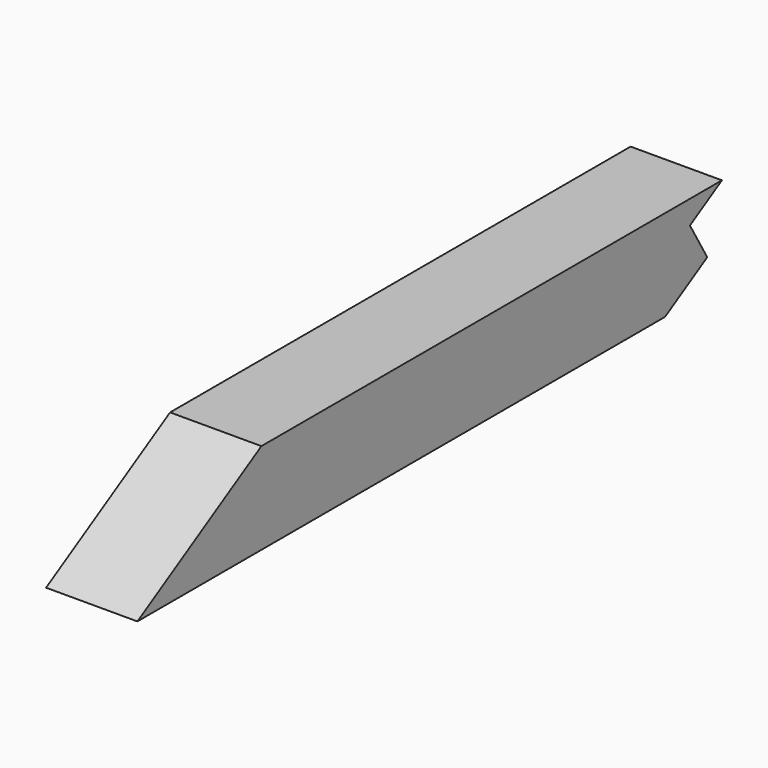
from build123d import *

# Parameters (mm, degrees)
F0_W     = 190.5
F0_H     = 190.5
F1_DEPTH = 1524
F3_DEPTH = 190.501
F5_DEPTH = 190.501


with BuildPart() as f1:
    # F0 (on Front) → F1 (new body)
    with BuildSketch(Plane.XZ):
        with Locations((95.25, 95.25)):
            Rectangle(F0_W, F0_H)
    extrude(amount=F1_DEPTH)

    # F2 (on face) → F3 (cut, through all)
    with BuildSketch(Plane.YZ.offset(190.5)):
        Polygon((-1524, 190.5), (-1524, 0), (-1200.727273, 190.5), align=None)
        Polygon((-83.324024, 141.398343), (0, 0), (0, 190.5), align=None)
    extrude(amount=-F3_DEPTH, mode=Mode.SUBTRACT)

    # F4 (on face) → F5 (cut, through all)
    with BuildSketch(Plane.YZ.offset(190.5)):
        Polygon((0, 0), (-38.190178, 64.807574), (-148.166667, 0), align=None)
    extrude(amount=-F5_DEPTH, mode=Mode.SUBTRACT)


solid = f1.part
